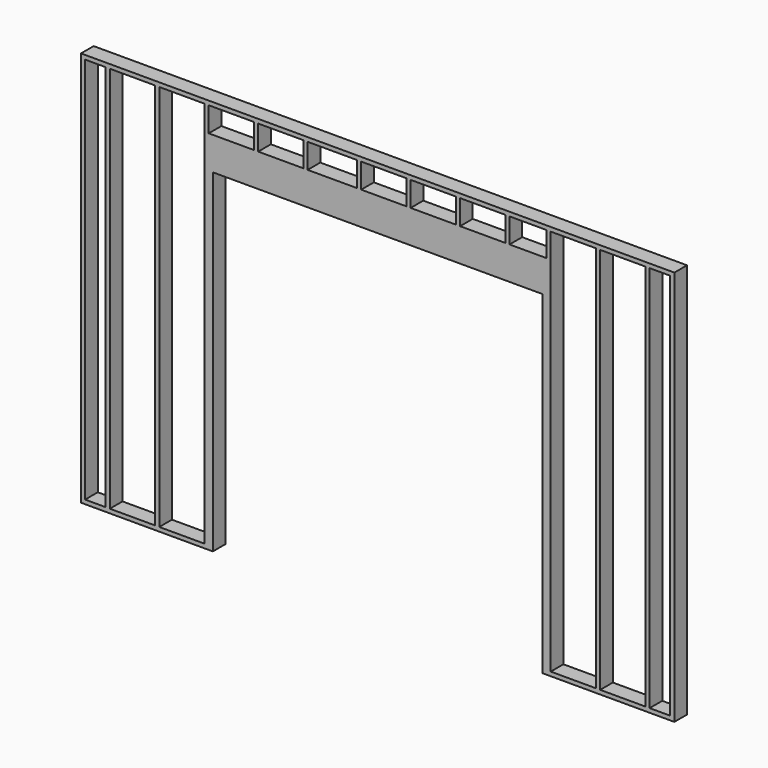
from build123d import *

# Parameters (mm, degrees)
F0_W     = 190.5
F0_H     = 3581.4
F0_W_2   = 419.1
F0_H_2   = 228.6
F0_W_3   = 457.2
F0_W_4   = 342.9
F1_DEPTH = 146.304


with BuildPart() as f1:
    # F0 (on Front) → F1 (new body)
    with BuildSketch(Plane.XZ):
        Polygon((822.96, 38.1), (822.96, 0), (2042.16, 0), (2042.16, 38.1), (2042.16, 3086.1), (5090.16, 3086.1), (5090.16, 38.1), (5090.16, 0), (6309.36, 0), (6309.36, 38.1), (6309.36, 3619.5), (6309.36, 3657.6), (822.96, 3657.6), (822.96, 3619.5), align=None)
        with Locations((956.31, 1828.8)):
            Rectangle(F0_W, F0_H, mode=Mode.SUBTRACT)
        with Locations((1299.21, 1828.8)):
            Rectangle(F0_W_2, F0_H, mode=Mode.SUBTRACT)
        with Locations((1756.41, 1828.8)):
            Rectangle(F0_W_2, F0_H, mode=Mode.SUBTRACT)
        with Locations((2213.61, 3505.2)):
            Rectangle(F0_W_2, F0_H_2, mode=Mode.SUBTRACT)
        with Locations((2670.81, 3505.2)):
            Rectangle(F0_W_2, F0_H_2, mode=Mode.SUBTRACT)
        with Locations((3147.06, 3505.2)):
            Rectangle(F0_W_3, F0_H_2, mode=Mode.SUBTRACT)
        with Locations((5375.91, 1828.8)):
            Rectangle(F0_W_2, F0_H, mode=Mode.SUBTRACT)
        with Locations((5833.11, 1828.8)):
            Rectangle(F0_W_2, F0_H, mode=Mode.SUBTRACT)
        with Locations((6176.01, 1828.8)):
            Rectangle(F0_W, F0_H, mode=Mode.SUBTRACT)
        with Locations((3623.31, 3505.2)):
            Rectangle(F0_W_2, F0_H_2, mode=Mode.SUBTRACT)
        with Locations((4080.51, 3505.2)):
            Rectangle(F0_W_2, F0_H_2, mode=Mode.SUBTRACT)
        with Locations((4537.71, 3505.2)):
            Rectangle(F0_W_2, F0_H_2, mode=Mode.SUBTRACT)
        with Locations((4956.81, 3505.2)):
            Rectangle(F0_W_4, F0_H_2, mode=Mode.SUBTRACT)
    extrude(amount=F1_DEPTH)


solid = f1.part
